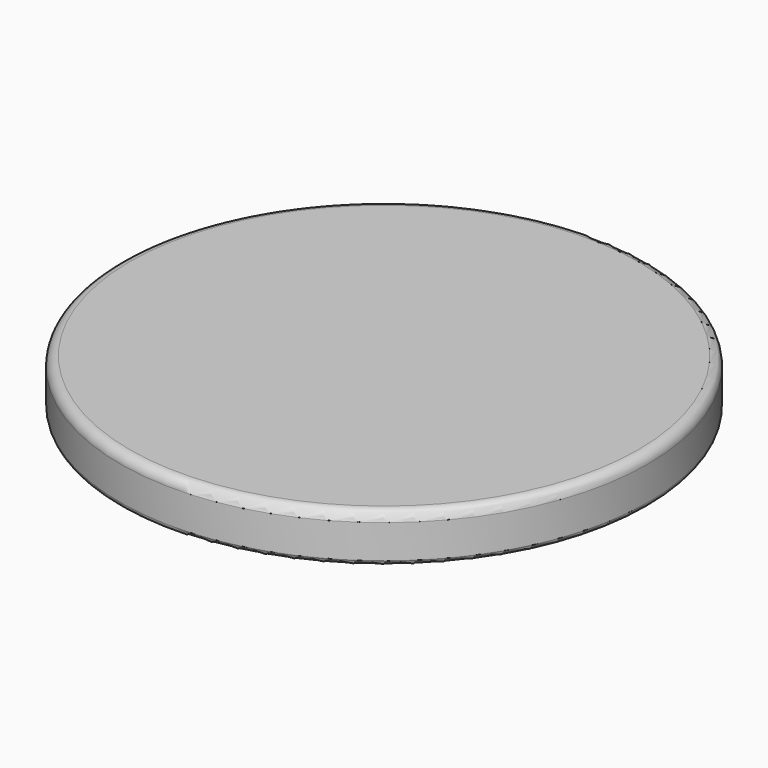
from build123d import *

# Parameters (mm, degrees)
F0_R     = 55
F1_DEPTH = 10
F2_R     = 1
F3_R     = 51
F3_R_2   = 50
F4_DEPTH = 4
F5_R     = 2


with BuildPart() as f1:
    # F0 (on Top) → F1 (new body)
    with BuildSketch(Plane.XY):
        Circle(F0_R)
    extrude(amount=F1_DEPTH)

    # F2
    f2_edges = [f1.edges().sort_by_distance(p)[0] for p in [
        (-55, 0, 0),
    ]]
    fillet(f2_edges, radius=F2_R)

    # F3 (on face) → F4 (cut)
    with BuildSketch(Plane(origin=(0, 0, 0), x_dir=(1, 0, 0), z_dir=(0, 0, -1))):
        Circle(F3_R)
        Circle(F3_R_2, mode=Mode.SUBTRACT)
    extrude(amount=-F4_DEPTH, mode=Mode.SUBTRACT)

    # F5
    f5_edges = [f1.edges().sort_by_distance(p)[0] for p in [
        (-55, 0, 10),
    ]]
    fillet(f5_edges, radius=F5_R)


solid = f1.part
